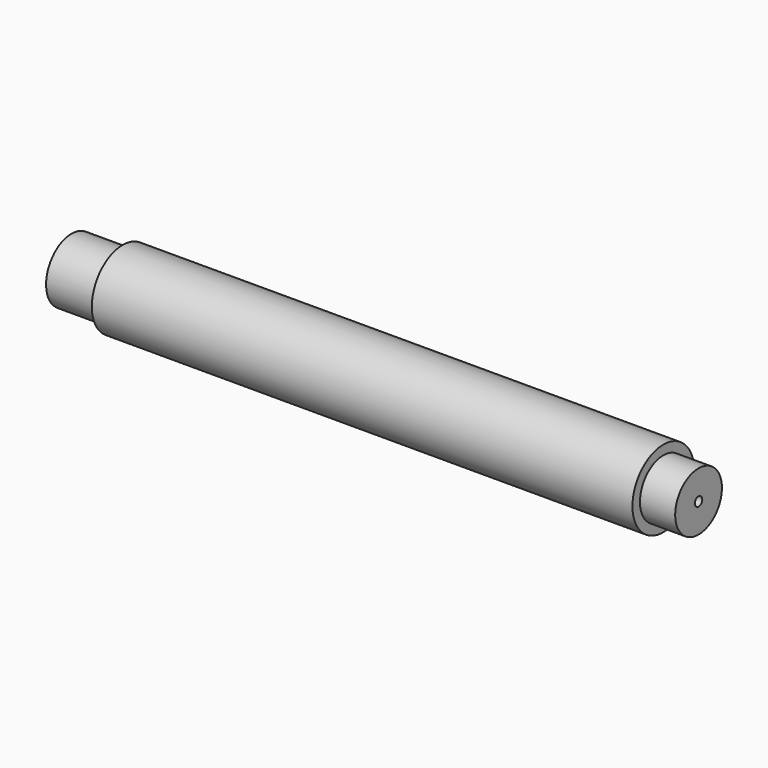
from build123d import *

# Parameters (mm, degrees)
F0_W   = 8.4189027548
F0_H   = 4.2399241356
F0_W_2 = 5.790784812
F0_H_2 = 4.041862092


with BuildPart() as f1:
    # F0 (on Front) → F1 (revolve)
    with BuildSketch(Plane.XZ):
        Polygon((0, 0.9921566816), (0, 0), (88.9, 0), (88.9, 0.7630070904), (88.9, 4.8048691824), (88.9, 6.35), (0, 6.35), (0, 5.2320808172), align=None)
        with Locations((-4.2094513774, 3.1121187494)):
            Rectangle(F0_W, F0_H)
        with Locations((91.795392406, 2.7839381364)):
            Rectangle(F0_W_2, F0_H_2)
    revolve(axis=Axis((44.45, 0, 0), (1, 0, 0)))


solid = f1.part
